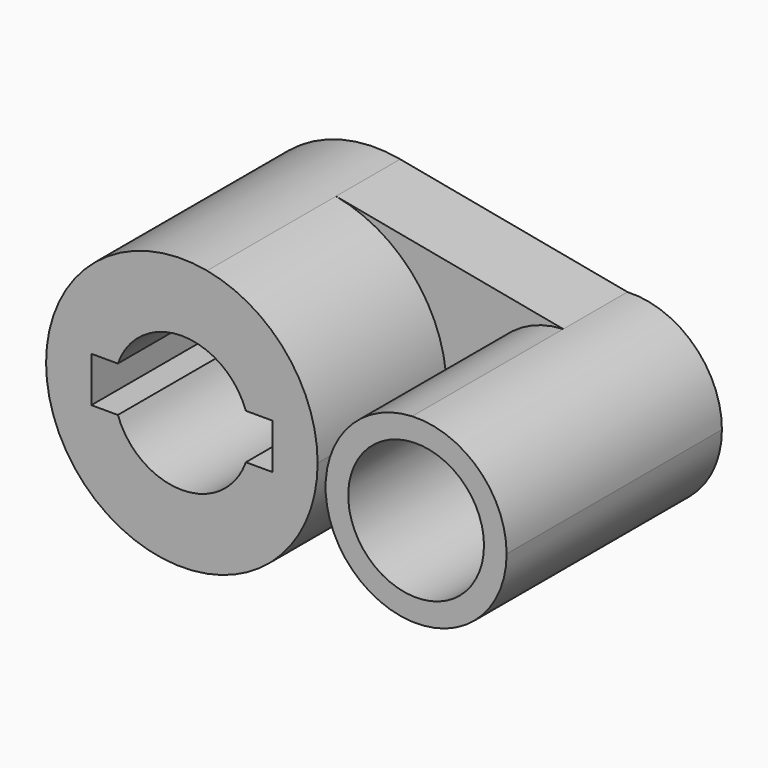
from build123d import *

# Parameters (mm, degrees)
F1_DEPTH = 50.8
F2_DEPTH = 16.88607
F0_R     = 14.2875
F3_DEPTH = 56.64394


with BuildPart() as f1:
    # F0 (on Front) → F1 (new body)
    with BuildSketch(Plane.XZ):
        with BuildLine():
            ThreePointArc((5.309582, -28.077375), (22.002863, -18.231968), (28.575, 0))
            ThreePointArc((28.575, 0), (22.002863, 18.231968), (5.309582, 28.077375))
            ThreePointArc((5.309582, 28.077375), (-28.575, 0), (5.309582, -28.077375))
        make_face()
        with BuildLine():
            ThreePointArc((-13.470384, 4.7625), (0, 14.2875), (13.470384, 4.7625))
            Line((13.470384, 4.7625), (19.05, 4.7625))
            Line((19.05, 4.7625), (19.05, -4.7625))
            Line((19.05, -4.7625), (13.470384, -4.7625))
            ThreePointArc((13.470384, -4.7625), (0, -14.2875), (-13.470384, -4.7625))
            Line((-13.470384, -4.7625), (-19.05, -4.7625))
            Line((-19.05, -4.7625), (-19.05, 4.7625))
            Line((-19.05, 4.7625), (-13.470384, 4.7625))
        make_face(mode=Mode.SUBTRACT)
    extrude(amount=F1_DEPTH)


with BuildPart() as f2:
    # F0 (on Front) → F2 (new body)
    with BuildSketch(Plane.XZ):
        with BuildLine():
            ThreePointArc((5.309582, 28.077375), (22.002863, 18.231968), (28.575, 0))
            ThreePointArc((28.575, 0), (22.002863, -18.231968), (5.309582, -28.077375))
            Line((5.309582, -28.077375), (53.142986, -19.031822))
            ThreePointArc((53.142986, -19.031822), (34.925, 0), (53.142986, 19.031822))
            Line((53.142986, 19.031822), (5.309582, 28.077375))
        make_face()
    extrude(amount=F2_DEPTH)

    # F0 (on Front) → F3 (join)
    with BuildSketch(Plane.XZ):
        with BuildLine():
            ThreePointArc((73.025, 0), (67.147939, 13.761402), (53.142986, 19.031822))
            ThreePointArc((53.142986, 19.031822), (34.925, 0), (53.142986, -19.031822))
            ThreePointArc((53.142986, -19.031822), (67.147939, -13.761402), (73.025, 0))
        make_face()
        with Locations((53.975, 0)):
            Circle(F0_R, mode=Mode.SUBTRACT)
    extrude(amount=F3_DEPTH)


solid = Compound([f1.part, f2.part])
